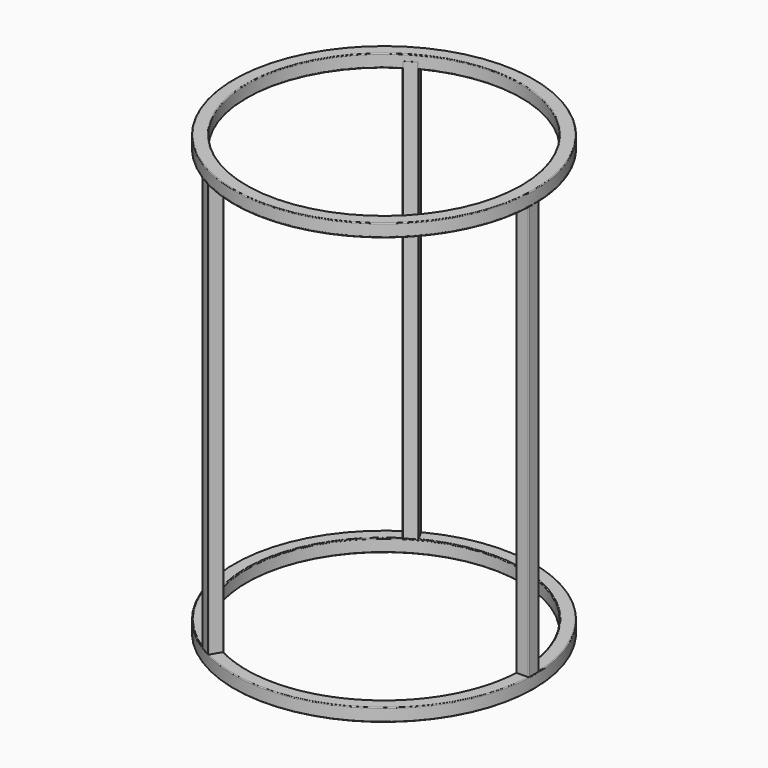
from build123d import *

# Parameters (mm, degrees)
F3_DEPTH = 588


with BuildPart() as f1:
    # F0 (on Front) → F1 (revolve)
    with BuildSketch(Plane.XZ):
        with BuildLine():
            Line((193, -9), (209, -9))
            ThreePointArc((209, -9), (209.707107, -8.707107), (210, -8))
            Line((210, -8), (210, 8))
            ThreePointArc((210, 8), (209.707107, 8.707107), (209, 9))
            Line((209, 9), (193, 9))
            ThreePointArc((193, 9), (192.292893, 8.707107), (192, 8))
            Line((192, 8), (192, -8))
            ThreePointArc((192, -8), (192.292893, -8.707107), (193, -9))
        make_face()
    revolve(axis=Axis((0, 0, 10), (0, 0, 1)))

    # F2 (on Top) → F3 (join)
    with BuildSketch(Plane.XY):
        with BuildLine():
            Line((192.80613, -9), (208.80613, -9))
            ThreePointArc((208.80613, -9), (209.513237, -8.707107), (209.80613, -8))
            Line((209.80613, -8), (209.80613, 8))
            ThreePointArc((209.80613, 8), (209.513237, 8.707107), (208.80613, 9))
            Line((208.80613, 9), (192.80613, 9))
            ThreePointArc((192.80613, 9), (192.099023, 8.707107), (191.80613, 8))
            Line((191.80613, 8), (191.80613, -8))
            ThreePointArc((191.80613, -8), (192.099023, -8.707107), (192.80613, -9))
        make_face()
        with BuildLine():
            Line((-88.608836, 171.475007), (-96.608836, 185.331413))
            ThreePointArc((-96.608836, 185.331413), (-97.216043, 185.797339), (-97.974862, 185.697439))
            Line((-97.974862, 185.697439), (-111.831268, 177.697439))
            ThreePointArc((-111.831268, 177.697439), (-112.297194, 177.090232), (-112.197294, 176.331413))
            Line((-112.197294, 176.331413), (-104.197294, 162.475007))
            ThreePointArc((-104.197294, 162.475007), (-103.590087, 162.009081), (-102.831268, 162.108981))
            Line((-102.831268, 162.108981), (-88.974862, 170.108981))
            ThreePointArc((-88.974862, 170.108981), (-88.508936, 170.716188), (-88.608836, 171.475007))
        make_face()
        with BuildLine():
            Line((-104.197294, -162.475007), (-112.197294, -176.331413))
            ThreePointArc((-112.197294, -176.331413), (-112.297194, -177.090232), (-111.831268, -177.697439))
            Line((-111.831268, -177.697439), (-97.974862, -185.697439))
            ThreePointArc((-97.974862, -185.697439), (-97.216043, -185.797339), (-96.608836, -185.331413))
            Line((-96.608836, -185.331413), (-88.608836, -171.475007))
            ThreePointArc((-88.608836, -171.475007), (-88.508936, -170.716188), (-88.974862, -170.108981))
            Line((-88.974862, -170.108981), (-102.831268, -162.108981))
            ThreePointArc((-102.831268, -162.108981), (-103.590087, -162.009081), (-104.197294, -162.475007))
        make_face()
    extrude(amount=-F3_DEPTH)

    # F4 (on Front) → F5 (revolve)
    with BuildSketch(Plane.XZ):
        with BuildLine():
            Line((193, -606), (209, -606))
            ThreePointArc((209, -606), (209.707107, -605.707107), (210, -605))
            Line((210, -605), (210, -589))
            ThreePointArc((210, -589), (209.707107, -588.292893), (209, -588))
            Line((209, -588), (193, -588))
            ThreePointArc((193, -588), (192.292893, -588.292893), (192, -589))
            Line((192, -589), (192, -605))
            ThreePointArc((192, -605), (192.292893, -605.707107), (193, -606))
        make_face()
    revolve(axis=Axis((0, 0, 10), (0, 0, 1)))


solid = f1.part
